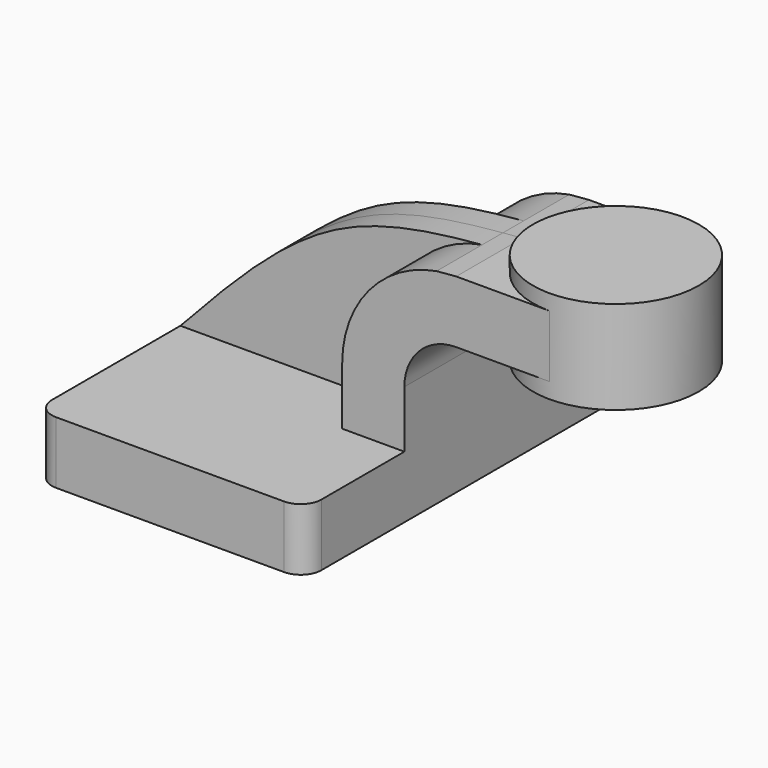
from build123d import *

# Parameters (mm, degrees)
F1_DEPTH = 63.5
F0_W     = 25.4
F0_H     = 19.05
F2_DEPTH = 25.4
F3_DEPTH = 7.9375
F5_R     = 6.35


with BuildPart() as f1:
    # F0 (on Front) → F1 (new body, symmetric)
    with BuildSketch(Plane.XZ):
        Polygon((-41.275, -9.525), (41.275, -9.525), (41.275, 9.525), (22.225, 9.525), (-41.275, 9.525), align=None)
    extrude(amount=F1_DEPTH, both=True)

    # F0 (on Front) → F2 (join, symmetric)
    with BuildSketch(Plane.XZ):
        with BuildLine():
            Line((22.225, 9.525), (41.275, 9.525))
            Line((41.275, 9.525), (41.275, 27.0002))
            ThreePointArc((41.275, 27.0002), (45.9246798487, 38.2255201513), (57.15, 42.8752))
            Line((57.15, 42.8752), (60.325, 42.8752))
            Line((60.325, 42.8752), (60.325, 61.9252))
            Line((60.325, 61.9252), (57.15, 61.9252))
            add(Edge.make_bspline(
                [(51.1356519258, 61.403444647), (53.1387058148, 61.5838940905), (55.1443529074, 61.7545470452), (57.15, 61.9252)],
                knots=[0.9452119778, 0.9452119778, 0.9452119778, 0.9452119778, 1, 1, 1, 1], degree=3))
            ThreePointArc((51.1356519258, 61.403444647), (30.4123231049, 49.4691176253), (22.225, 27.0002))
            Line((22.225, 27.0002), (22.225, 9.525))
        make_face()
        with Locations((73.025, 52.4002)):
            Rectangle(F0_W, F0_H)
    extrude(amount=F2_DEPTH, both=True)

    # F0 (on Front) → F3 (join, symmetric)
    with BuildSketch(Plane.XZ):
        with BuildLine():
            add(Edge.make_bspline(
                [(-41.275, 9.525), (-25.9322609375, 26.0151222158), (1.6123086085, 55.6195700492), (35.8274132624, 60.0243688455), (51.1356519258, 61.403444647)],
                knots=[0, 0, 0, 0, 0.5264972724, 0.9452119778, 0.9452119778, 0.9452119778, 0.9452119778], degree=3))
            Line((-41.275, 9.525), (22.225, 9.525))
            Line((22.225, 9.525), (22.225, 27.0002))
            ThreePointArc((22.225, 27.0002), (30.4123231049, 49.4691176253), (51.1356519258, 61.403444647))
        make_face()
    extrude(amount=F3_DEPTH, both=True)

    # F0 (on Front) → F4 (revolve)
    with BuildSketch(Plane.XZ):
        Polygon((85.725, 61.9252), (85.725, 42.8752), (85.725, 38.1), (111.125, 38.1), (111.125, 66.675), (85.725, 66.675), align=None)
    revolve(axis=Axis((85.725, 0, 52.3875), (0, 0, 1)))

    # F5
    f5_edges = [f1.edges().sort_by_distance(p)[0] for p in [
        (41.275, -63.5, 0),
        (-41.275, -63.5, 0),
        (41.275, 63.5, 0),
        (-41.275, 63.5, 0),
    ]]
    fillet(f5_edges, radius=F5_R)


solid = f1.part
